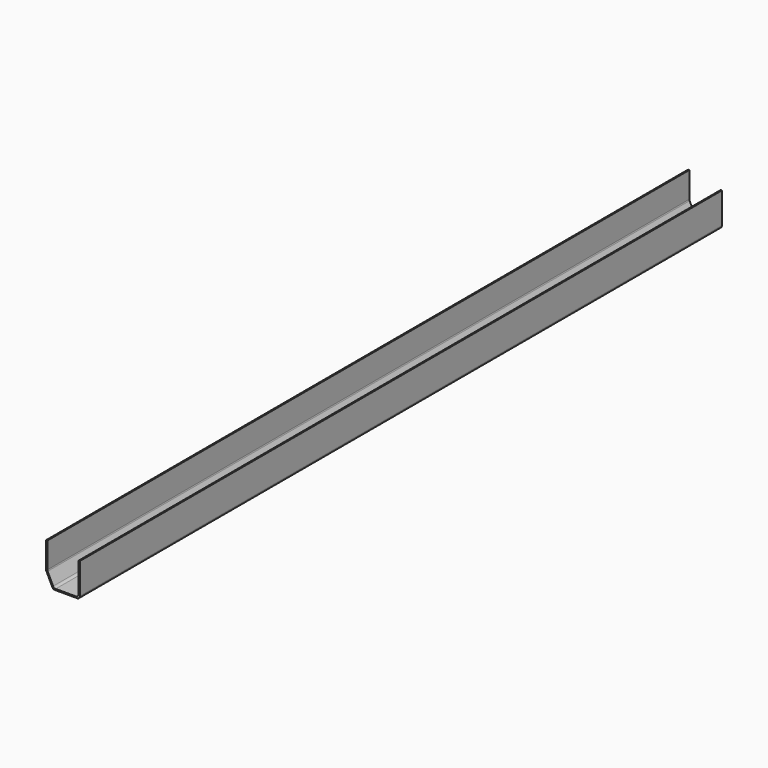
from build123d import *

# Parameters (mm, degrees)
F1_DEPTH = 2841.75


with BuildPart() as f1:
    # F0 (on Front) → F1 (new body)
    with BuildSketch(Plane.XZ):
        with BuildLine():
            ThreePointArc((110, 0), (117.071068, 2.928932), (120, 10))
            Line((120, 10), (120, 119.4))
            Line((120, 119.4), (115.5, 119.4))
            Line((115.5, 119.4), (115.5, 14.5))
            ThreePointArc((115.5, 14.5), (112.571068, 7.428932), (105.5, 4.5))
            Line((105.5, 4.5), (34.040576, 4.5))
            ThreePointArc((34.040576, 4.5), (28.749816, 6.014255), (25.061369, 10.098428))
            Line((25.061369, 10.098428), (5.520793, 49.961202))
            ThreePointArc((5.520793, 49.961202), (4.75854, 52.103579), (4.5, 54.362775))
            Line((4.5, 54.362775), (4.5, 145.4))
            Line((4.5, 145.4), (0, 145.4))
            Line((0, 145.4), (0, 53.319155))
            ThreePointArc((0, 53.319155), (0.25854, 51.05996), (1.020793, 48.917583))
            Line((1.020793, 48.917583), (22.255673, 5.598428))
            ThreePointArc((22.255673, 5.598428), (25.94412, 1.514255), (31.23488, 0))
            Line((31.23488, 0), (110, 0))
        make_face()
    extrude(amount=F1_DEPTH)


solid = f1.part
